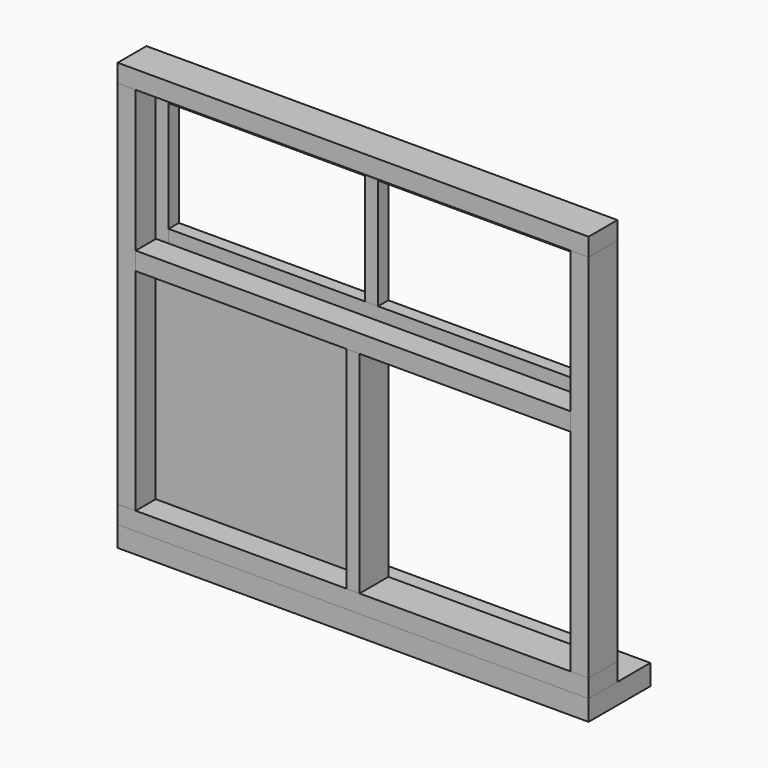
from build123d import *

# Parameters (mm, degrees)
F4_W      = 915
F4_H      = 35
F11_DEPTH = 70
F5_W      = 915
F5_H      = 35
F12_DEPTH = 70
F6_W      = 845
F6_H      = 35
F13_DEPTH = 70
F7_W      = 35
F7_H      = 720
F14_DEPTH = 70
F8_W      = 35
F8_H      = 720
F15_DEPTH = 70
F9_W      = 25
F9_H      = 410
F16_DEPTH = 70
F18_W     = 789
F18_H     = 25
F23_DEPTH = 25
F19_W     = 789
F19_H     = 25
F24_DEPTH = 25
F20_W     = 25
F20_H     = 265
F25_DEPTH = 25
F21_W     = 25
F21_H     = 265
F26_DEPTH = 25
F22_W     = 25
F22_H     = 215
F27_DEPTH = 25
F29_W     = 405
F29_H     = 405
F30_DEPTH = 10
F10_W     = 915
F10_H     = 40
F31_DEPTH = 150


with BuildPart() as f11:
    # F4 (on Front) → F11 (new body, through all)
    with BuildSketch(Plane.XZ):
        with Locations((457.5, -17.5)):
            Rectangle(F4_W, F4_H)
    extrude(amount=-F11_DEPTH)


with BuildPart() as f12:
    # F5 (on Front) → F12 (new body, through all)
    with BuildSketch(Plane.XZ):
        with Locations((457.5, -772.5)):
            Rectangle(F5_W, F5_H)
    extrude(amount=-F12_DEPTH)


with BuildPart() as f13:
    # F6 (on Front) → F13 (new body, through all)
    with BuildSketch(Plane.XZ):
        with Locations((457.5, -327.5)):
            Rectangle(F6_W, F6_H)
    extrude(amount=-F13_DEPTH)


with BuildPart() as f14:
    # F7 (on Front) → F14 (new body, through all)
    with BuildSketch(Plane.XZ):
        with Locations((17.5, -395)):
            Rectangle(F7_W, F7_H)
    extrude(amount=-F14_DEPTH)


with BuildPart() as f15:
    # F8 (on Front) → F15 (new body, through all)
    with BuildSketch(Plane.XZ):
        with Locations((897.5, -395)):
            Rectangle(F8_W, F8_H)
    extrude(amount=-F15_DEPTH)


with BuildPart() as f16:
    # F9 (on Front) → F16 (new body, through all)
    with BuildSketch(Plane.XZ):
        with Locations((457.5, -550)):
            Rectangle(F9_W, F9_H)
    extrude(amount=-F16_DEPTH)


with BuildPart() as f23:
    # F18 (on plane+point) → F23 (new body, through all)
    with BuildSketch(Plane.XZ.offset(-45)):
        with Locations((457.5, -54.5)):
            Rectangle(F18_W, F18_H)
    extrude(amount=-F23_DEPTH)


with BuildPart() as f24:
    # F19 (on plane+point) → F24 (new body, through all)
    with BuildSketch(Plane.XZ.offset(-45)):
        with Locations((457.5, -294.5)):
            Rectangle(F19_W, F19_H)
    extrude(amount=-F24_DEPTH)


with BuildPart() as f25:
    # F20 (on plane+point) → F25 (new body, through all)
    with BuildSketch(Plane.XZ.offset(-45)):
        with Locations((50.5, -174.5)):
            Rectangle(F20_W, F20_H)
    extrude(amount=-F25_DEPTH)


with BuildPart() as f26:
    # F21 (on plane+point) → F26 (new body, through all)
    with BuildSketch(Plane.XZ.offset(-45)):
        with Locations((864.5, -174.5)):
            Rectangle(F21_W, F21_H)
    extrude(amount=-F26_DEPTH)


with BuildPart() as f27:
    # F22 (on plane+point) → F27 (new body, through all)
    with BuildSketch(Plane.XZ.offset(-45)):
        with Locations((457.5, -174.5)):
            Rectangle(F22_W, F22_H)
    extrude(amount=-F27_DEPTH)


with BuildPart() as f30:
    # F29 (on plane+point) → F30 (new body, through all)
    with BuildSketch(Plane.XZ.offset(-45)):
        with Locations((240, -550)):
            Rectangle(F29_W, F29_H)
    extrude(amount=-F30_DEPTH)


with BuildPart() as f31:
    # F10 (on Front) → F31 (new body)
    with BuildSketch(Plane.XZ):
        with Locations((457.5, -810)):
            Rectangle(F10_W, F10_H)
    extrude(amount=-F31_DEPTH)


solid = Compound([f11.part, f12.part, f13.part, f14.part, f15.part, f16.part, f23.part, f24.part, f25.part, f26.part, f27.part, f30.part, f31.part])
